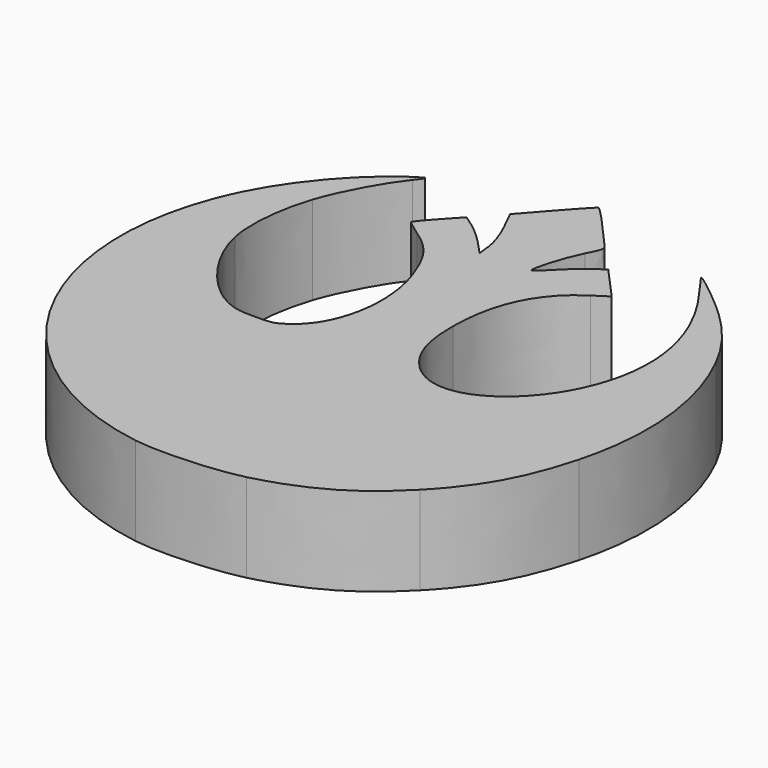
from build123d import *

# Parameters (mm, degrees)
EXTRUDE_DEPTH = 5


with BuildPart() as part:
    # path3417 → Extrude (new body)
    with BuildSketch(Plane(origin=(-1.246917, 5.322024, 0), x_dir=(0, -1, 0), z_dir=(0, 0, -1))):
        with BuildLine():
            add(Edge.make_bspline(
                [(14.944774, 1.685063), (13.361214, 11.710116), (2.590516, 17.325398), (-6.508579, 12.869733)],
                knots=[0, 0, 0, 0, 1, 1, 1, 1], degree=3))
            add(Edge.make_bspline(
                [(-6.508579, 12.869733), (-8.68412, 11.804406), (-10.932469, 9.903823), (-12.217743, 8.043626)],
                knots=[0, 0, 0, 0, 1, 1, 1, 1], degree=3))
            add(Edge.make_bspline(
                [(-12.217743, 8.043626), (-12.757815, 7.261966), (-12.732993, 7.192494), (-12.095877, 7.70256)],
                knots=[0, 0, 0, 0, 1, 1, 1, 1], degree=3))
            add(Edge.make_bspline(
                [(-12.095877, 7.70256), (-11.042002, 8.546283), (-9.235995, 9.517066), (-7.869486, 9.974373)],
                knots=[0, 0, 0, 0, 1, 1, 1, 1], degree=3))
            add(Edge.make_bspline(
                [(-7.869486, 9.974373), (-6.244405, 10.518212), (-4.318684, 10.688692), (-2.968003, 10.408295)],
                knots=[0, 0, 0, 0, 1, 1, 1, 1], degree=3))
            add(Edge.make_bspline(
                [(-2.968003, 10.408295), (-0.992961, 9.998274), (1.291337, 8.36226), (2.080555, 6.792512)],
                knots=[0, 0, 0, 0, 1, 1, 1, 1], degree=3))
            add(Edge.make_bspline(
                [(2.080555, 6.792512), (2.365582, 6.225596), (2.434083, 5.879704), (2.434083, 5.007338)],
                knots=[0, 0, 0, 0, 1, 1, 1, 1], degree=3))
            add(Edge.make_bspline(
                [(2.434083, 5.007338), (2.434083, 4.021519), (2.394855, 3.870651), (1.992885, 3.310406)],
                knots=[0, 0, 0, 0, 1, 1, 1, 1], degree=3))
            add(Edge.make_bspline(
                [(1.992885, 3.310406), (0.804566, 1.654194), (-2.270321, 1.094934), (-5.002311, 2.03812)],
                knots=[0, 0, 0, 0, 1, 1, 1, 1], degree=3))
            add(Edge.make_bspline(
                [(-5.002311, 2.03812), (-6.685716, 2.619301), (-7.449217, 3.167506), (-8.254276, 4.373089)],
                knots=[0, 0, 0, 0, 1, 1, 1, 1], degree=3))
            add(Edge.make_bspline(
                [(-8.254276, 4.373089), (-8.572998, 4.850377), (-8.881842, 5.240885), (-8.940601, 5.240885)],
                knots=[0, 0, 0, 0, 1, 1, 1, 1], degree=3))
            add(Edge.make_bspline(
                [(-8.940601, 5.240885), (-8.999357, 5.240885), (-9.442299, 4.875312), (-9.924916, 4.428495)],
                knots=[0, 0, 0, 0, 1, 1, 1, 1], degree=3))
            add(Edge.make_bspline(
                [(-9.924916, 4.428495), (-10.802398, 3.616098)],
                knots=[0, 0, 4.237125, 4.237125], degree=1))
            add(Edge.make_bspline(
                [(-10.802398, 3.616098), (-10.388237, 3.014386)],
                knots=[0, 0, 2.58828, 2.58828], degree=1))
            add(Edge.make_bspline(
                [(-10.388237, 3.014386), (-10.160447, 2.683444), (-9.640363, 2.100627), (-9.232489, 1.719243)],
                knots=[0, 0, 0, 0, 1, 1, 1, 1], degree=3))
            add(Edge.make_bspline(
                [(-9.232489, 1.719243), (-8.490905, 1.025809)],
                knots=[0, 0, 3.597456, 3.597456], degree=1))
            add(Edge.make_bspline(
                [(-8.490905, 1.025809), (-9.25049, 1.114131)],
                knots=[0, 0, 2.709573, 2.709573], degree=1))
            add(Edge.make_bspline(
                [(-9.25049, 1.114131), (-9.701616, 1.166587), (-10.461855, 1.42617), (-11.122633, 1.75337)],
                knots=[0, 0, 0, 0, 1, 1, 1, 1], degree=3))
            add(Edge.make_bspline(
                [(-11.122633, 1.75337), (-12.235196, 2.304281)],
                knots=[0, 0, 4.398982, 4.398982], degree=1))
            add(Edge.make_bspline(
                [(-12.235196, 2.304281), (-13.668026, 1.038995)],
                knots=[0, 0, 6.773145, 6.773145], degree=1))
            add(Edge.make_bspline(
                [(-13.668026, 1.038995), (-14.456078, 0.343091), (-15.119114, -0.275921), (-15.14143, -0.336582)],
                knots=[0, 0, 0, 0, 1, 1, 1, 1], degree=3))
            add(Edge.make_bspline(
                [(-15.14143, -0.336582), (-15.17537, -0.428849), (-14.435121, -1.124953), (-12.535765, -2.786827)],
                knots=[0, 0, 0, 0, 1, 1, 1, 1], degree=3))
            add(Edge.make_bspline(
                [(-12.535765, -2.786827), (-12.238224, -3.047171), (-12.219061, -3.044363), (-11.370103, -2.615806)],
                knots=[0, 0, 0, 0, 1, 1, 1, 1], degree=3))
            add(Edge.make_bspline(
                [(-11.370103, -2.615806), (-10.558344, -2.20603), (-9.152731, -1.758945), (-8.676181, -1.758945)],
                knots=[0, 0, 0, 0, 1, 1, 1, 1], degree=3))
            add(Edge.make_bspline(
                [(-8.676181, -1.758945), (-8.555035, -1.758945), (-8.747863, -2.019529), (-9.120904, -2.359937)],
                knots=[0, 0, 0, 0, 1, 1, 1, 1], degree=3))
            add(Edge.make_bspline(
                [(-9.120904, -2.359937), (-9.483139, -2.690487), (-10.013858, -3.277862), (-10.300277, -3.665221)],
                knots=[0, 0, 0, 0, 1, 1, 1, 1], degree=3))
            add(Edge.make_bspline(
                [(-10.300277, -3.665221), (-10.821031, -4.369498)],
                knots=[0, 0, 3.103562, 3.103562], degree=1))
            add(Edge.make_bspline(
                [(-10.821031, -4.369498), (-9.858924, -5.237266)],
                knots=[0, 0, 4.590835, 4.590835], degree=1))
            add(Edge.make_bspline(
                [(-9.858924, -5.237266), (-8.896817, -6.105032)],
                knots=[0, 0, 4.590828, 4.590828], degree=1))
            add(Edge.make_bspline(
                [(-8.896817, -6.105032), (-8.382543, -5.310746)],
                knots=[0, 0, 3.352815, 3.352815], degree=1))
            add(Edge.make_bspline(
                [(-8.382543, -5.310746), (-7.14131, -3.393675), (-5.140431, -2.440591), (-2.303177, -2.414948)],
                knots=[0, 0, 0, 0, 1, 1, 1, 1], degree=3))
            add(Edge.make_bspline(
                [(-2.303177, -2.414948), (-0.69792, -2.400442), (0.373952, -2.684174), (1.258046, -3.357641)],
                knots=[0, 0, 0, 0, 1, 1, 1, 1], degree=3))
            add(Edge.make_bspline(
                [(1.258046, -3.357641), (4.734195, -6.005616), (0.574947, -11.374877), (-4.952423, -11.374877)],
                knots=[0, 0, 0, 0, 1, 1, 1, 1], degree=3))
            add(Edge.make_bspline(
                [(-4.952423, -11.374877), (-7.141575, -11.374877), (-9.418056, -10.523893), (-11.569287, -8.901397)],
                knots=[0, 0, 0, 0, 1, 1, 1, 1], degree=3))
            add(Edge.make_bspline(
                [(-11.569287, -8.901397), (-12.228349, -8.404319), (-12.76758, -8.030538), (-12.76758, -8.070769)],
                knots=[0, 0, 0, 0, 1, 1, 1, 1], degree=3))
            add(Edge.make_bspline(
                [(-12.76758, -8.070769), (-12.76758, -8.223265), (-11.390727, -9.924464), (-10.52192, -10.845445)],
                knots=[0, 0, 0, 0, 1, 1, 1, 1], degree=3))
            add(Edge.make_bspline(
                [(-10.52192, -10.845445), (-9.383264, -12.052476), (-8.188098, -12.95467), (-6.828323, -13.633617)],
                knots=[0, 0, 0, 0, 1, 1, 1, 1], degree=3))
            add(Edge.make_bspline(
                [(-6.828323, -13.633617), (-3.402679, -15.344068), (0.387916, -15.711199), (4.170569, -14.698896)],
                knots=[0, 0, 0, 0, 1, 1, 1, 1], degree=3))
            add(Edge.make_bspline(
                [(4.170569, -14.698896), (6.968316, -13.950169), (8.884464, -12.885506), (10.789298, -11.021349)],
                knots=[0, 0, 0, 0, 1, 1, 1, 1], degree=3))
            add(Edge.make_bspline(
                [(10.789298, -11.021349), (12.802533, -9.051105), (13.890101, -7.146319), (14.620408, -4.311487)],
                knots=[0, 0, 0, 0, 1, 1, 1, 1], degree=3))
            add(Edge.make_bspline(
                [(14.620408, -4.311487), (15.01224, -2.790513), (15.17537, 0.225249), (14.944774, 1.685063)],
                knots=[0, 0, 0, 0, 1, 1, 1, 1], degree=3))
        make_face()
    extrude(amount=-EXTRUDE_DEPTH)


solid = part.part
